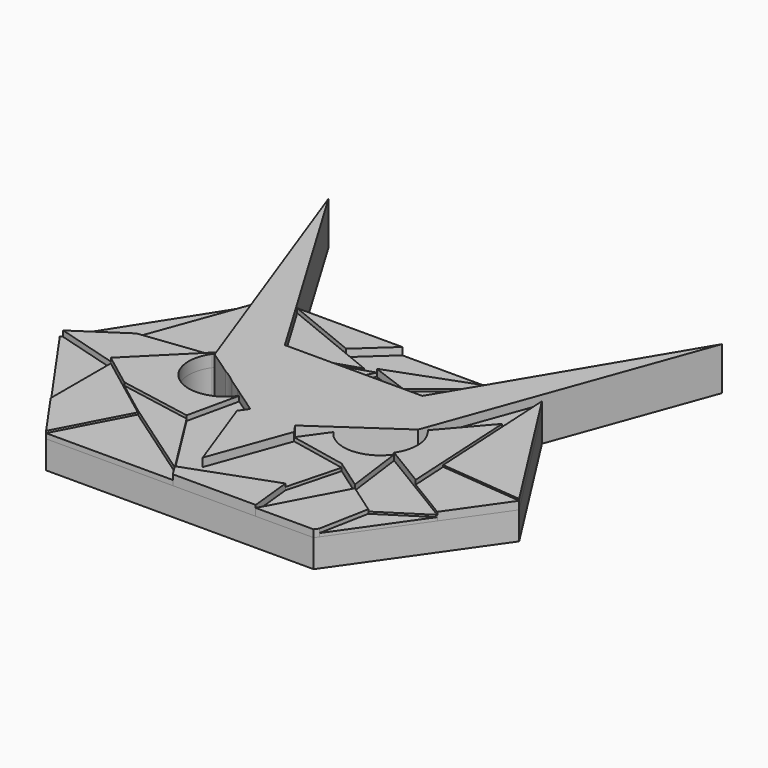
from build123d import *

# Parameters (mm, degrees)
F1_DEPTH  = 8.3
F2_DEPTH  = 12.9
F4_DEPTH  = 2.1
F5_DEPTH  = 1.7
F6_DEPTH  = 0.9
F7_DEPTH  = 2.6
F8_DEPTH  = 3.6
F9_DEPTH  = 2.7
F10_DEPTH = 1.5
F11_DEPTH = 2.1
F12_DEPTH = 3
F13_DEPTH = 1.2
F14_DEPTH = 3.2
F15_DEPTH = 1.5
F16_DEPTH = 2.2
F17_DEPTH = 1.6
F18_DEPTH = 1
F19_DEPTH = 3.7
F20_DEPTH = 2.4
F21_DEPTH = 2.9
F22_DEPTH = 2.03
F24_DEPTH = 2.1
F25_DEPTH = 3.4
F26_DEPTH = 1.2
F27_DEPTH = 1.6
F28_DEPTH = 0.5
F29_DEPTH = 2.6
F30_DEPTH = 1.9


with BuildPart() as f1:
    # F0 (on Top) → F1 (new body)
    with BuildSketch(Plane.XY):
        with BuildLine():
            Line((-40.5735259519, 0), (-40.5735259519, 8.5367225111))
            Line((-40.5735259519, 8.5367225111), (-49.1240295351, 32.0290380307))
            Line((-49.1240295351, 32.0290380307), (-47.2599061169, 34.6912821746))
            Line((-47.2599061169, 34.6912821746), (-54.6390673843, 39.7742931738))
            ThreePointArc((-54.6390673843, 39.7742931738), (-69.992958195, 36.9453449176), (-72.8219064512, 52.2992357283))
            Line((-72.8219064512, 52.2992357283), (-71.9290067306, 53.59548534))
            Line((-71.9290067306, 53.59548534), (-82.5721135647, 82.8371810398))
            Line((-82.5721135647, 82.8371810398), (-109.2523477695, 40.9576022144))
            Line((-109.2523477695, 40.9576022144), (-80.5735259519, 0))
            Line((-80.5735259519, 0), (-40.5735259519, 0))
        make_face()
        with BuildLine():
            Line((-32.0230223688, 32.0290380307), (-40.5735259519, 8.5367225111))
            Line((-40.5735259519, 8.5367225111), (-40.5735259519, 0))
            Line((-40.5735259519, 0), (-0.5735259519, 0))
            Line((-0.5735259519, 0), (28.1052958656, 40.9576022144))
            Line((28.1052958656, 40.9576022144), (1.4250616609, 82.8371810398))
            Line((1.4250616609, 82.8371810398), (-9.2180451733, 53.59548534))
            Line((-9.2180451733, 53.59548534), (-8.3251454527, 52.2992357283))
            ThreePointArc((-8.3251454527, 52.2992357283), (-11.1540937089, 36.9453449176), (-26.5079845196, 39.7742931738))
            Line((-26.5079845196, 39.7742931738), (-33.8871457869, 34.6912821746))
            Line((-33.8871457869, 34.6912821746), (-32.0230223688, 32.0290380307))
        make_face()
    extrude(amount=F1_DEPTH)

    # F3 (on face) → F4 (join)
    with BuildSketch(Plane.XY.offset(8.3)):
        Polygon((-90.0843590498, 13.5828773312), (-80.5735259519, 0), (-69.7060376406, 20.6809863448), (-79.8951983452, 28.3742975444), (-90.0843590498, 36.0676087439), align=None)
    extrude(amount=F4_DEPTH)


with BuildPart() as f1b:
    # F0 (on Top) → F1, piece 2 (new body)
    with BuildSketch(Plane.XY):
        Polygon((-9.1609990891, 83.1271745051), (-40.5735259519, 83.1271745051), (-40.5735259519, 64.9339854717), (-20.01694918, 64.9339854717), align=None)
        Polygon((-40.5735259519, 64.9339854717), (-40.5735259519, 83.1271745051), (-71.9860528148, 83.1271745051), (-61.1301027238, 64.9339854717), align=None)
    extrude(amount=F1_DEPTH)


with BuildPart() as f2:
    # F0 (on Top) → F2 (new body)
    with BuildSketch(Plane.XY):
        with BuildLine():
            Line((-40.5735259519, 8.5367225111), (-40.5735259519, 64.9339854717))
            Line((-40.5735259519, 64.9339854717), (-61.1301027238, 64.9339854717))
            Line((-61.1301027238, 64.9339854717), (-71.9860528148, 83.1271745051))
            Line((-71.9860528148, 83.1271745051), (-99.398168848, 129.066387989))
            Line((-99.398168848, 129.066387989), (-82.5721135647, 82.8371810398))
            Line((-82.5721135647, 82.8371810398), (-71.9290067306, 53.59548534))
            Line((-71.9290067306, 53.59548534), (-71.0005760193, 51.0446429253))
            Line((-71.0005760193, 51.0446429253), (-63.7304869177, 46.0367644511))
            add(Edge.make_bspline(
                [(-63.7304869177, 46.0367644511), (-62.2947776665, 45.340907748), (-61.0417766381, 44.3312453647), (-59.7887756098, 43.3215829815)],
                knots=[0, 0, 0, 0, 4.7863658915, 4.7863658915, 4.7863658915, 4.7863658915], degree=3))
            Line((-59.7887756098, 43.3215829815), (-59.6128417175, 43.200393882))
            Line((-59.6128417175, 43.200393882), (-55.8470643019, 40.606401512))
            Line((-55.8470643019, 40.606401512), (-54.6390673843, 39.7742931738))
            Line((-54.6390673843, 39.7742931738), (-47.2599061169, 34.6912821746))
            Line((-47.2599061169, 34.6912821746), (-49.1240295351, 32.0290380307))
            Line((-49.1240295351, 32.0290380307), (-40.5735259519, 8.5367225111))
        make_face()
        Polygon((-20.01694918, 64.9339854717), (-40.5735259519, 64.9339854717), (-40.5735259519, 8.5367225111), (-32.0230223688, 32.0290380307), (-33.8871457869, 34.6912821746), (-26.5079845196, 39.7742931738), (-10.1464758846, 51.0446429253), (-9.2180451733, 53.59548534), (1.4250616609, 82.8371810398), (18.2511169441, 129.066387989), (-9.1609990891, 83.1271745051), align=None)
    extrude(amount=F2_DEPTH)


with BuildPart() as f5:
    # F3 (on face) → F5 (new body)
    with BuildSketch(Plane.XY.offset(8.3)):
        Polygon((-94.2691490054, 50.9100854397), (-72.6227559849, 53.5120931147), (-71.9290067306, 53.59548534), (-82.5721135647, 82.8371810398), align=None)
    extrude(amount=F5_DEPTH)


with BuildPart() as f6:
    # F3 (on face) → F6 (new body)
    with BuildSketch(Plane.XY.offset(8.3)):
        Polygon((-109.2523477695, 40.9576022144), (-90.0843590498, 13.5828773312), (-90.0843590498, 36.0676087439), (-108.5834307508, 41.4019255871), (-94.2691490054, 50.9100854397), (-82.5721135647, 82.8371810398), align=None)
    extrude(amount=F6_DEPTH)


with BuildPart() as f7:
    # F3 (on face) → F7 (new body)
    with BuildSketch(Plane.XY.offset(8.3)):
        Polygon((-108.5834307508, 41.4019255871), (-90.0843590498, 36.0676087439), (-72.6227559849, 53.5120931147), (-94.2691490054, 50.9100854397), align=None)
    extrude(amount=F7_DEPTH)


with BuildPart() as f8:
    # F3 (on face) → F8 (new body)
    with BuildSketch(Plane.XY.offset(8.3)):
        with BuildLine():
            Line((-90.0843590498, 36.0676087439), (-79.8951983452, 28.3742975444))
            Line((-79.8951983452, 28.3742975444), (-58.0714382231, 24.3955813348))
            Line((-58.0714382231, 24.3955813348), (-54.6390673843, 39.7742931738))
            ThreePointArc((-54.6390673843, 39.7742931738), (-69.992958195, 36.9453449176), (-72.8219064512, 52.2992357283))
            Line((-72.8219064512, 52.2992357283), (-71.9290067306, 53.59548534))
            Line((-71.9290067306, 53.59548534), (-72.6227559849, 53.5120931147))
            Line((-72.6227559849, 53.5120931147), (-90.0843590498, 36.0676087439))
        make_face()
    extrude(amount=F8_DEPTH)


with BuildPart() as f9:
    # F3 (on face) → F9 (new body)
    with BuildSketch(Plane.XY.offset(8.3)):
        Polygon((-79.8951983452, 28.3742975444), (-69.7060376406, 20.6809863448), (-44.8514654865, 3.4566346086), (-58.0714382231, 24.3955813348), align=None)
    extrude(amount=F9_DEPTH)


with BuildPart() as f10:
    # F3 (on face) → F10 (new body)
    with BuildSketch(Plane.XY.offset(8.3)):
        Polygon((-69.7060376406, 20.6809863448), (-80.5735259519, 0), (-42.6690913737, 0), (-44.8514654865, 3.4566346086), align=None)
    extrude(amount=F10_DEPTH)


with BuildPart() as f11:
    # F3 (on face) → F11 (new body)
    with BuildSketch(Plane.XY.offset(8.3)):
        Polygon((-58.0714382231, 24.3955813348), (-44.8514654865, 3.4566346086), (-19.2341444576, 12.7805769448), (-15.0591144338, 28.5676661879), (-32.0230223688, 32.0290380307), (-40.5735259519, 8.5367225111), (-49.1240295351, 32.0290380307), (-47.2599061169, 34.6912821746), (-54.6390673843, 39.7742931738), align=None)
    extrude(amount=F11_DEPTH)


with BuildPart() as f12:
    # F3 (on face) → F12 (new body)
    with BuildSketch(Plane.XY.offset(8.3)):
        Polygon((-44.8514654865, 3.4566346086), (-42.6690913737, 0), (-17.8835820407, 0), (-19.2341444576, 12.7805769448), align=None)
    extrude(amount=F12_DEPTH)


with BuildPart() as f13:
    # F3 (on face) → F13 (new body)
    with BuildSketch(Plane.XY.offset(8.3)):
        Polygon((-19.2341444576, 12.7805769448), (-17.8835820407, 0), (-6.0083048738, 22.2302211071), (-15.0591144338, 28.5676661879), align=None)
    extrude(amount=F13_DEPTH)


with BuildPart() as f14:
    # F3 (on face) → F14 (new body)
    with BuildSketch(Plane.XY.offset(8.3)):
        with BuildLine():
            Line((-15.0591144338, 28.5676661879), (-6.0083048738, 22.2302211071))
            Line((-6.0083048738, 22.2302211071), (-8.3251454527, 39.7742931738))
            ThreePointArc((-8.3251454527, 39.7742931738), (-17.4165649861, 34.9971786059), (-26.5079845196, 39.7742931738))
            Line((-26.5079845196, 39.7742931738), (-32.0230223688, 32.0290380307))
            Line((-32.0230223688, 32.0290380307), (-15.0591144338, 28.5676661879))
        make_face()
    extrude(amount=F14_DEPTH)


with BuildPart() as f15:
    # F3 (on face) → F15 (new body)
    with BuildSketch(Plane.XY.offset(8.3)):
        Polygon((-33.8871457869, 34.6912821746), (-32.0230223688, 32.0290380307), (-26.5079845196, 39.7742931738), align=None)
    extrude(amount=F15_DEPTH)


with BuildPart() as f16:
    # F3 (on face) → F16 (new body)
    with BuildSketch(Plane.XY.offset(8.3)):
        Polygon((-6.0083048738, 22.2302211071), (-17.8835820407, 0), (-0.5735259519, 0), (0.2158066012, 1.1272837124), (3.0425046862, 15.8927760263), align=None)
    extrude(amount=F16_DEPTH)


with BuildPart() as f17:
    # F3 (on face) → F17 (new body)
    with BuildSketch(Plane.XY.offset(8.3)):
        Polygon((-8.3251454527, 39.7742931738), (-6.0083048738, 22.2302211071), (3.0425046862, 15.8927760263), (16.6816644923, 24.6429658388), (4.1782595198, 32.2086295063), align=None)
    extrude(amount=F17_DEPTH)


with BuildPart() as f18:
    # F3 (on face) → F18 (new body)
    with BuildSketch(Plane.XY.offset(8.3)):
        Polygon((16.6816644923, 24.6429658388), (3.0425046862, 15.8927760263), (0.2158066012, 1.1272837124), align=None)
    extrude(amount=F18_DEPTH)


with BuildPart() as f19:
    # F3 (on face) → F19 (new body)
    with BuildSketch(Plane.XY.offset(8.3)):
        with BuildLine():
            ThreePointArc((-8.3251454527, 52.2992357283), (-6.376979141, 46.0367644511), (-8.3251454527, 39.7742931738))
            Line((-8.3251454527, 39.7742931738), (4.1782595198, 32.2086295063))
            Line((4.1782595198, 32.2086295063), (3.5784326457, 43.2388450465))
            Line((3.5784326457, 43.2388450465), (2.2915677188, 66.9030023654))
            Line((2.2915677188, 66.9030023654), (-9.2180451733, 53.59548534))
            Line((-9.2180451733, 53.59548534), (-8.3251454527, 52.2992357283))
        make_face()
    extrude(amount=F19_DEPTH)


with BuildPart() as f20:
    # F3 (on face) → F20 (new body)
    with BuildSketch(Plane.XY.offset(8.3)):
        Polygon((4.1782595198, 32.2086295063), (16.6816644923, 24.6429658388), (28.1052958656, 40.9576022144), (3.5784326457, 43.2388450465), align=None)
    extrude(amount=F20_DEPTH)


with BuildPart() as f21:
    # F3 (on face) → F21 (new body)
    with BuildSketch(Plane.XY.offset(8.3)):
        Polygon((3.5784326457, 43.2388450465), (28.1052958656, 40.9576022144), (1.4250616609, 82.8371810398), (2.2915677188, 66.9030023654), align=None)
    extrude(amount=F21_DEPTH)


with BuildPart() as f22:
    # F3 (on face) → F22 (new body)
    with BuildSketch(Plane.XY.offset(8.3)):
        Polygon((1.4250616609, 82.8371810398), (-9.2180451733, 53.59548534), (2.2915677188, 66.9030023654), align=None)
    extrude(amount=F22_DEPTH)


with BuildPart() as f24:
    # F23 (on face) → F24 (new body)
    with BuildSketch(Plane.XY.offset(8.3)):
        Polygon((-71.9860528148, 83.1271745051), (-61.1301027238, 64.9339854717), (-42.311451323, 71.024977503), (-50.2294269253, 74.2541666338), align=None)
    extrude(amount=F24_DEPTH)


with BuildPart() as f25:
    # F23 (on face) → F25 (new body)
    with BuildSketch(Plane.XY.offset(8.3)):
        Polygon((-40.5735259519, 83.1271745051), (-71.9860528148, 83.1271745051), (-50.2294269253, 74.2541666338), align=None)
    extrude(amount=F25_DEPTH)


with BuildPart() as f26:
    # F23 (on face) → F26 (new body)
    with BuildSketch(Plane.XY.offset(8.3)):
        Polygon((-50.2294269253, 74.2541666338), (-42.311451323, 71.024977503), (-39.2992049456, 71.9999447465), (-9.1609990891, 83.1271745051), (-40.5735259519, 83.1271745051), align=None)
    extrude(amount=F26_DEPTH)


with BuildPart() as f27:
    # F23 (on face) → F27 (new body)
    with BuildSketch(Plane.XY.offset(8.3)):
        Polygon((-42.311451323, 71.024977503), (-61.1301027238, 64.9339854717), (-42.7265577018, 64.9339854717), (-39.2992049456, 71.9999447465), align=None)
    extrude(amount=F27_DEPTH)


with BuildPart() as f28:
    # F23 (on face) → F28 (new body)
    with BuildSketch(Plane.XY.offset(8.3)):
        Polygon((-39.2992049456, 71.9999447465), (-42.7265577018, 64.9339854717), (-20.01694918, 64.9339854717), (-28.0112039333, 67.8634704451), align=None)
    extrude(amount=F28_DEPTH)


with BuildPart() as f29:
    # F23 (on face) → F29 (new body)
    with BuildSketch(Plane.XY.offset(8.3)):
        Polygon((-9.1609990891, 83.1271745051), (-39.2992049456, 71.9999447465), (-28.0112039333, 67.8634704451), align=None)
    extrude(amount=F29_DEPTH)


with BuildPart() as f30:
    # F23 (on face) → F30 (new body)
    with BuildSketch(Plane.XY.offset(8.3)):
        Polygon((-28.0112039333, 67.8634704451), (-20.01694918, 64.9339854717), (-9.1609990891, 83.1271745051), align=None)
    extrude(amount=F30_DEPTH)


solid = Compound([f1.part, f1b.part, f2.part, f5.part, f6.part, f7.part, f8.part, f9.part, f10.part, f11.part, f12.part, f13.part, f14.part, f15.part, f16.part, f17.part, f18.part, f19.part, f20.part, f21.part, f22.part, f24.part, f25.part, f26.part, f27.part, f28.part, f29.part, f30.part])
